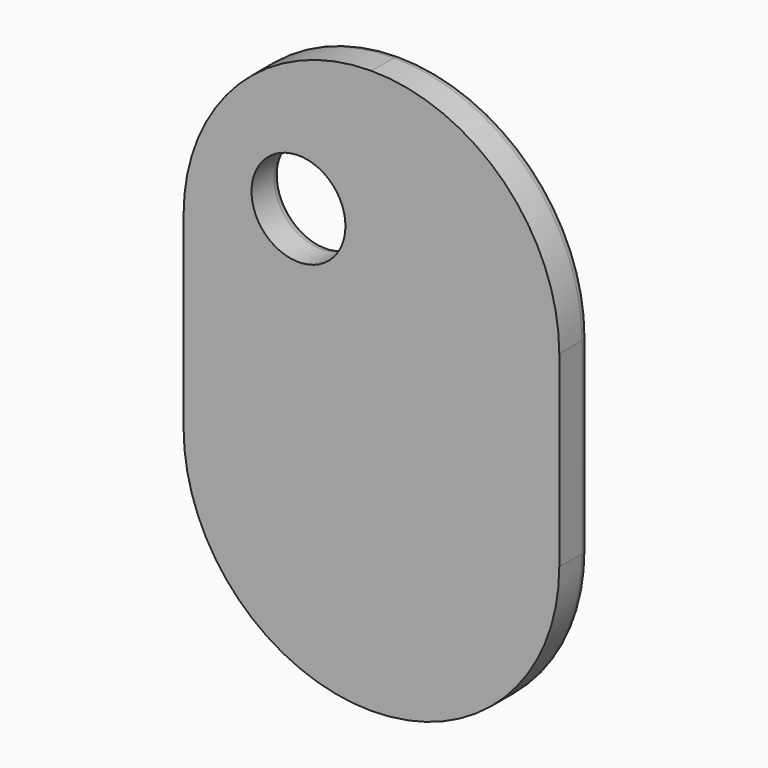
from build123d import *

# Parameters (mm, degrees)
F0_R     = 2.5
F1_DEPTH = 2
F2_R     = 0.5


with BuildPart() as f1:
    # F0 (on Front) → F1 (new body)
    with BuildSketch(Plane.XZ):
        with BuildLine():
            ThreePointArc((8.610092, 19.679409), (1.539024, 16.750477), (-1.389908, 9.679409))
            Line((-1.389908, 9.679409), (-1.389908, -0.320591))
            ThreePointArc((-1.389908, -0.320591), (1.539024, -7.391659), (8.610092, -10.320591))
            ThreePointArc((8.610092, -10.320591), (15.68116, -7.391659), (18.610092, -0.320591))
            Line((18.610092, -0.320591), (18.610092, 9.679409))
            ThreePointArc((18.610092, 9.679409), (15.68116, 16.750477), (8.610092, 19.679409))
        make_face()
        with Locations((4.72724, 11.953933)):
            Circle(F0_R, mode=Mode.SUBTRACT)
    extrude(amount=F1_DEPTH)

    # F2
    f2_edges = [f1.edges().sort_by_distance(p)[0] for p in [
        (-1.389908, 0, 4.679409),
        (8.610092, 0, -10.320591),
        (18.610092, 0, 4.679409),
        (8.610092, 0, 19.679409),
        (2.22724, 0, 11.953933),
    ]]
    fillet(f2_edges, radius=F2_R)


solid = f1.part
